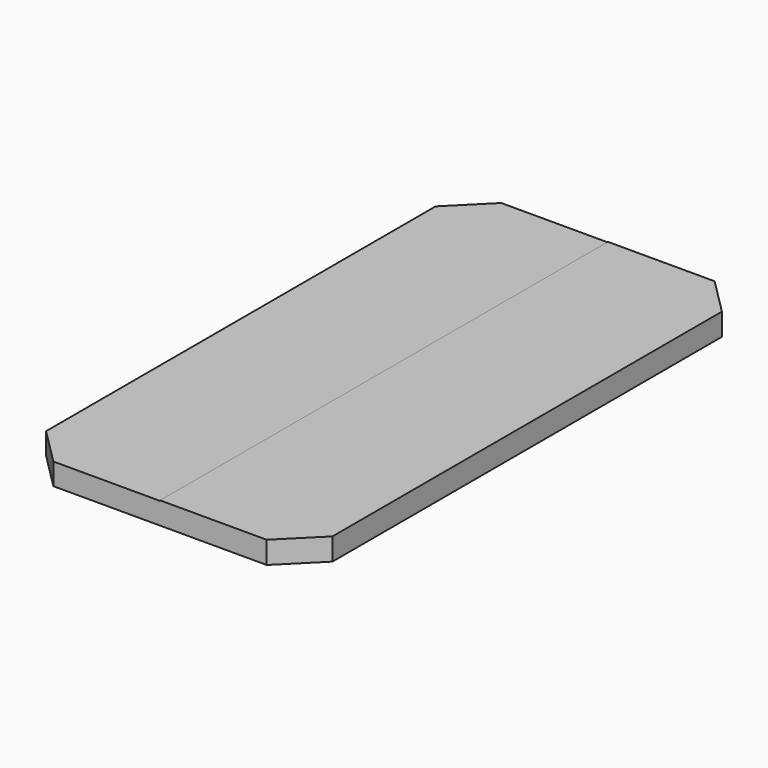
from build123d import *

# Parameters (mm, degrees)
F1_DEPTH = 78.2
F3_DEPTH = 5


with BuildPart() as f1:
    # F0 (on Front) → F1 (new body)
    with BuildSketch(Plane.XZ):
        Polygon((0, 0), (-20, 0), (-20, -3.035), (20, -3.035), (20, 0.07), (0, 0.07), align=None)
    extrude(amount=F1_DEPTH)

    # F2 (on Top) → F3 (cut, symmetric)
    with BuildSketch(Plane.XY):
        Polygon((20, 0), (14.9, 0), (20, -5.1), align=None)
        Polygon((20, -78.2), (20, -73.1), (14.9, -78.2), align=None)
        Polygon((-20, -5.1), (-14.9, 0), (-20, 0), align=None)
        Polygon((-14.9, -78.2), (-20, -73.1), (-20, -78.2), align=None)
    extrude(amount=F3_DEPTH, both=True, mode=Mode.SUBTRACT)


solid = f1.part
